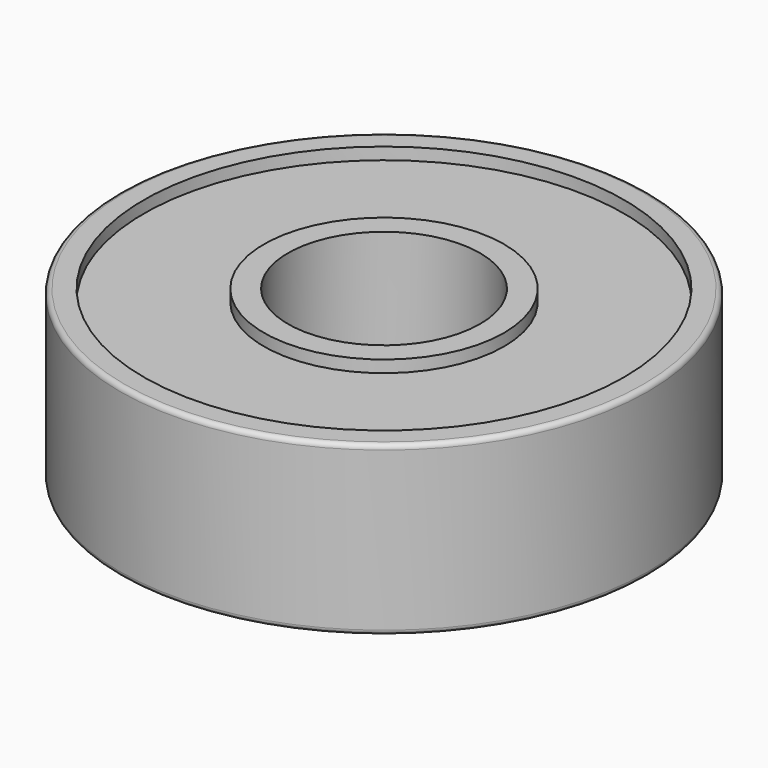
from build123d import *

# Parameters (mm, degrees)
F0_R     = 11
F0_R_2   = 4
F1_DEPTH = 7
F2_R     = 10
F2_R_2   = 5
F3_DEPTH = 0.5
F4_R     = 10
F4_R_2   = 5
F5_DEPTH = 0.5
F6_R     = 0.2


with BuildPart() as f1:
    # F0 (on Top) → F1 (new body)
    with BuildSketch(Plane.XY):
        Circle(F0_R)
        Circle(F0_R_2, mode=Mode.SUBTRACT)
    extrude(amount=F1_DEPTH)

    # F2 (on face) → F3 (cut)
    with BuildSketch(Plane(origin=(0, 0, 0), x_dir=(1, 0, 0), z_dir=(0, 0, -1))):
        Circle(F2_R)
        Circle(F2_R_2, mode=Mode.SUBTRACT)
    extrude(amount=-F3_DEPTH, mode=Mode.SUBTRACT)

    # F4 (on face) → F5 (cut)
    with BuildSketch(Plane.XY.offset(7)):
        Circle(F4_R)
        Circle(F4_R_2, mode=Mode.SUBTRACT)
    extrude(amount=-F5_DEPTH, mode=Mode.SUBTRACT)

    # F6
    f6_edges = [f1.edges().sort_by_distance(p)[0] for p in [
        (-11, 0, 0),
        (-11, 0, 7),
    ]]
    fillet(f6_edges, radius=F6_R)


solid = f1.part
